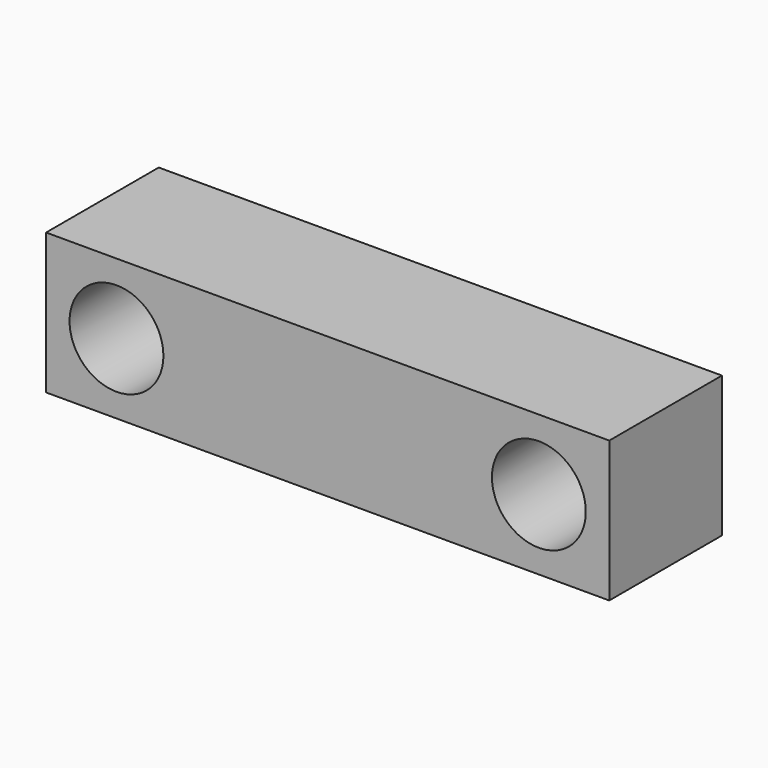
from build123d import *

# Parameters (mm, degrees)
F0_W     = 76.2
F0_H     = 19.05
F1_DEPTH = 19.05
F3_D     = 12.7
F5_D     = 12.7


with BuildPart() as f1:
    # F0 (on Top) → F1 (new body)
    with BuildSketch(Plane.XY):
        with Locations((9.621889, -4.491718)):
            Rectangle(F0_W, F0_H)
    extrude(amount=F1_DEPTH)

    # F3 (through all)
    with Locations(Plane(origin=(0, 5.033282, 0), x_dir=(-1, 0, 0), z_dir=(0, 1, 0))):
        with Locations((18.953111, 9.525)):
            Hole(F3_D / 2)

    # F5 (through all)
    with Locations(Plane.XZ.offset(14.016718)):
        with Locations((38.196889, 9.525)):
            Hole(F5_D / 2)


solid = f1.part
